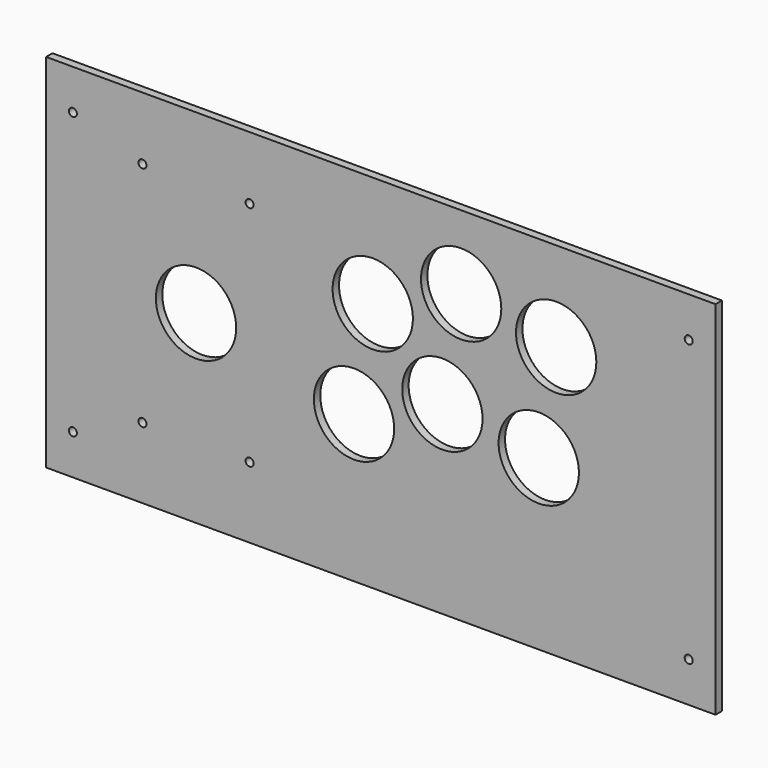
from build123d import *

# Parameters (mm, degrees)
F0_W     = 250
F0_H     = 135
F0_R     = 1.5
F0_R_2   = 15
F1_DEPTH = 3


with BuildPart() as f1:
    # F0 (on Front) → F1 (new body)
    with BuildSketch(Plane.XZ):
        Rectangle(F0_W, F0_H)
        with Locations((-115, -52.5)):
            Circle(F0_R, mode=Mode.SUBTRACT)
        with Locations((-89, -41)):
            Circle(F0_R, mode=Mode.SUBTRACT)
        with Locations((-49, -41)):
            Circle(F0_R, mode=Mode.SUBTRACT)
        with Locations((-10, -12.5)):
            Circle(F0_R_2, mode=Mode.SUBTRACT)
        with Locations((115, -52.5)):
            Circle(F0_R, mode=Mode.SUBTRACT)
        with Locations((59, -4.5)):
            Circle(F0_R_2, mode=Mode.SUBTRACT)
        with Locations((-69, 1.5)):
            Circle(F0_R_2, mode=Mode.SUBTRACT)
        with Locations((-3, 26)):
            Circle(F0_R_2, mode=Mode.SUBTRACT)
        with Locations((-89, 44)):
            Circle(F0_R, mode=Mode.SUBTRACT)
        with Locations((-115, 52.5)):
            Circle(F0_R, mode=Mode.SUBTRACT)
        with Locations((-49, 44)):
            Circle(F0_R, mode=Mode.SUBTRACT)
        with Locations((23, 1.5)):
            Circle(F0_R_2, mode=Mode.SUBTRACT)
        with Locations((30, 40)):
            Circle(F0_R_2, mode=Mode.SUBTRACT)
        with Locations((65.5, 34)):
            Circle(F0_R_2, mode=Mode.SUBTRACT)
        with Locations((115, 52.5)):
            Circle(F0_R, mode=Mode.SUBTRACT)
    extrude(amount=F1_DEPTH)


solid = f1.part
